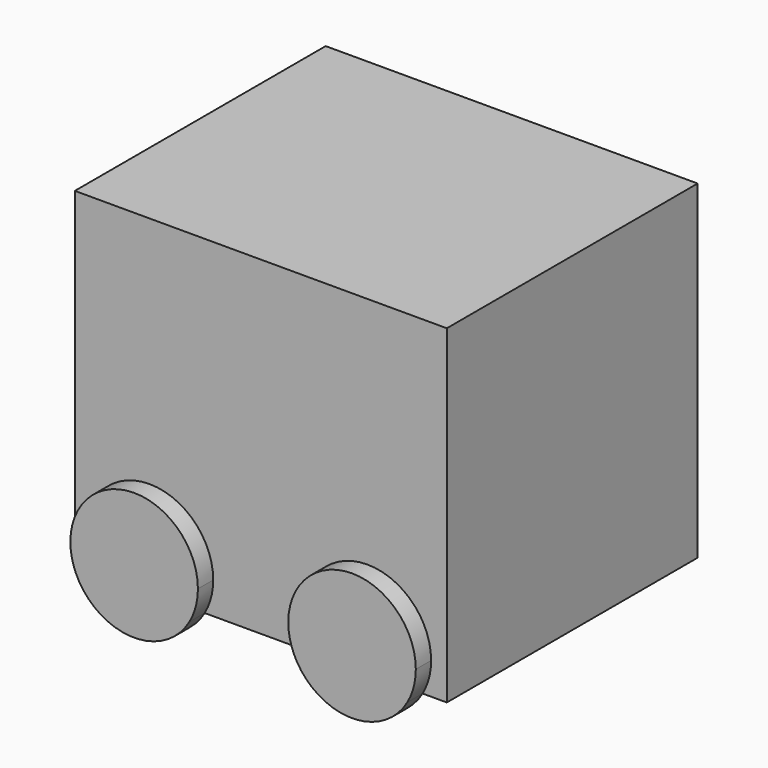
from build123d import *

# Parameters (mm, degrees)
F0_W     = 350
F0_H     = 310
F1_DEPTH = 295
F3_DEPTH = 18
F5_DEPTH = 18


with BuildPart() as f1:
    # F0 (on Front) → F1 (new body)
    with BuildSketch(Plane.XZ):
        with Locations((175, 155)):
            Rectangle(F0_W, F0_H)
    extrude(amount=F1_DEPTH)

    # F2 (on face) → F3 (join)
    with BuildSketch(Plane.XZ.offset(295)):
        with BuildLine():
            ThreePointArc((18.2292630883, 0), (70.1907873154, -30), (122.1523115424, 0))
            Line((122.1523115424, 0), (18.2292630883, 0))
        make_face()
        with BuildLine():
            ThreePointArc((223.2640853139, 0), (275.2256095409, -30), (327.187133768, 0))
            Line((327.187133768, 0), (223.2640853139, 0))
        make_face()
        with BuildLine():
            ThreePointArc((122.1523115424, 0), (128.1463368927, 14.4708572938), (130.1907873154, 30))
            Line((130.1907873154, 30), (10.1907873154, 30))
            ThreePointArc((10.1907873154, 30), (12.235237738, 14.4708572938), (18.2292630883, 0))
            Line((18.2292630883, 0), (122.1523115424, 0))
        make_face()
        with BuildLine():
            ThreePointArc((327.187133768, 0), (333.1811591183, 14.4708572938), (335.2256095409, 30))
            Line((335.2256095409, 30), (215.2256095409, 30))
            ThreePointArc((215.2256095409, 30), (217.2700599636, 14.4708572938), (223.2640853139, 0))
            Line((223.2640853139, 0), (327.187133768, 0))
        make_face()
        with BuildLine():
            Line((10.1907873154, 30), (130.1907873154, 30))
            ThreePointArc((130.1907873154, 30), (70.1907873154, 90), (10.1907873154, 30))
        make_face()
        with BuildLine():
            Line((215.2256095409, 30), (335.2256095409, 30))
            ThreePointArc((335.2256095409, 30), (275.2256095409, 90), (215.2256095409, 30))
        make_face()
    extrude(amount=F3_DEPTH)

    # F4 (on face) → F5 (join)
    with BuildSketch(Plane(origin=(0, 0, 0), x_dir=(-1, 0, 0), z_dir=(0, 1, 0))):
        with BuildLine():
            ThreePointArc((-127.6141306758, 30), (-67.6141306758, -30), (-7.6141306758, 30))
            Line((-7.6141306758, 30), (-127.6141306758, 30))
        make_face()
        with BuildLine():
            Line((-127.6141306758, 30), (-7.6141306758, 30))
            ThreePointArc((-7.6141306758, 30), (-67.6141306758, 90), (-127.6141306758, 30))
        make_face()
        with BuildLine():
            ThreePointArc((-333.5054194927, 30), (-273.5054194927, -30), (-213.5054194927, 30))
            Line((-213.5054194927, 30), (-333.5054194927, 30))
        make_face()
        with BuildLine():
            Line((-333.5054194927, 30), (-213.5054194927, 30))
            ThreePointArc((-213.5054194927, 30), (-273.5054194927, 90), (-333.5054194927, 30))
        make_face()
    extrude(amount=F5_DEPTH)


solid = f1.part
